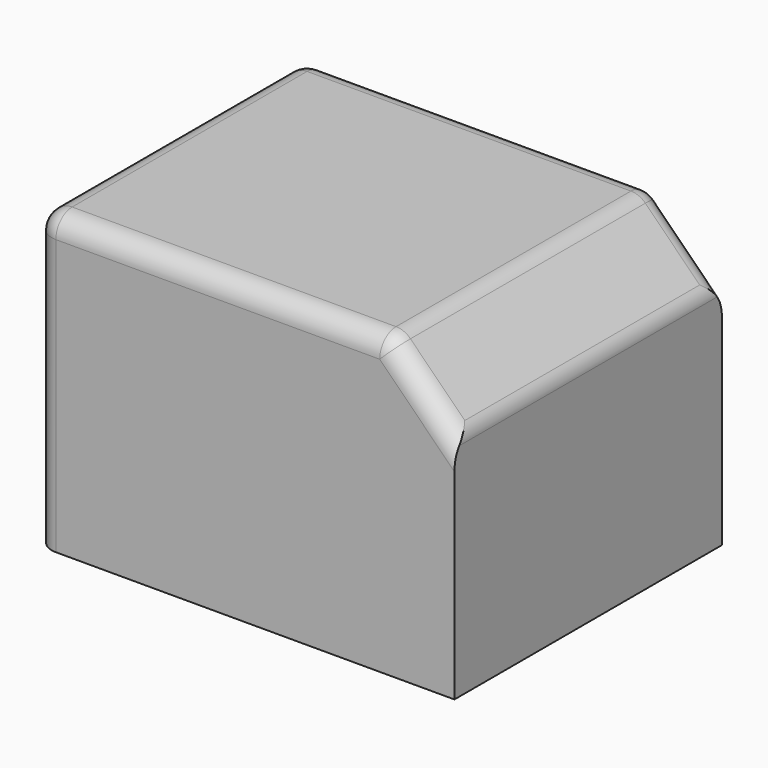
from build123d import *

# Parameters (mm, degrees)
SKETCH049_W     = 20.55
SKETCH049_H     = 16.4
PAD017_DEPTH    = 14.5
SKETCH057_W     = 30
SKETCH057_H     = 20
POCKET032_DEPTH = 16.401
FILLET003_R     = 1


with BuildPart() as part:
    # Sketch049 → Pad017 (new body)
    with BuildSketch(Plane.XY):
        with Locations((-17.425, 38.1)):
            Rectangle(SKETCH049_W, SKETCH049_H)
    extrude(amount=PAD017_DEPTH)

    # Sketch057 (on Face3 of Pad017) → Pocket032 (cut, through all)
    with BuildSketch(Plane.XZ.offset(-29.9)):
        with Locations((-17, 8)):
            Rectangle(SKETCH057_W, SKETCH057_H)
        Polygon((-27.7, 14.5), (-10.4, 14.5), (-7.15, 11.25), (-7.15, 0), (-27.7, 0), align=None, mode=Mode.SUBTRACT)
    extrude(amount=-POCKET032_DEPTH, mode=Mode.SUBTRACT)

    # Fillet003
    fillet003_edges = [part.edges().sort_by_distance(p)[0] for p in [
        (-27.7, 38.1, 14.5),
        (-19.05, 46.3, 14.5),
        (-10.4, 38.1, 14.5),
        (-19.05, 29.9, 14.5),
        (-8.775, 29.9, 12.875),
        (-8.775, 46.3, 12.875),
        (-7.15, 38.1, 11.25),
        (-27.7, 29.9, 7.25),
        (-27.7, 46.3, 7.25),
    ]]
    fillet(fillet003_edges, radius=FILLET003_R)


solid = part.part
